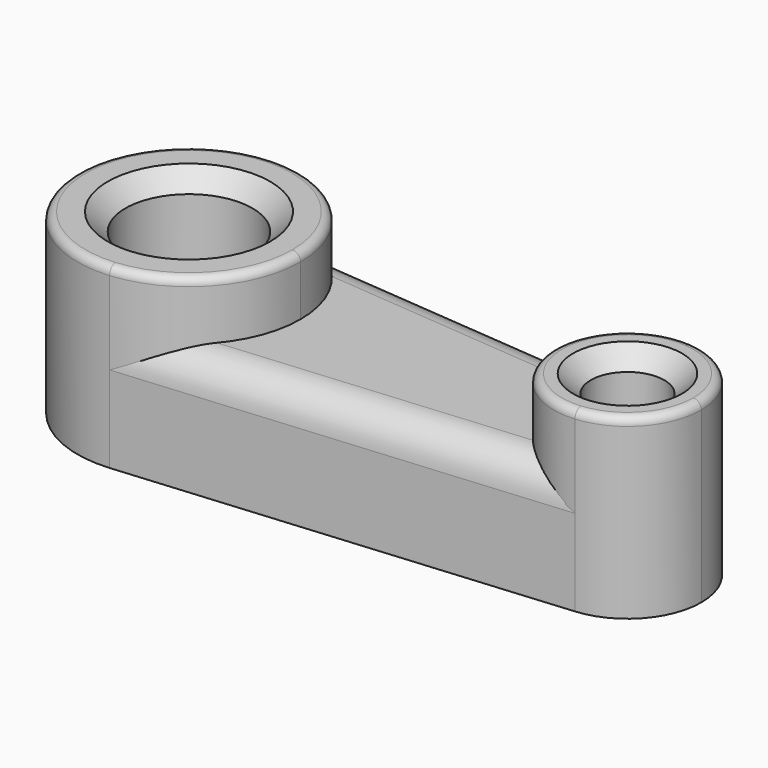
from build123d import *

# Parameters (mm, degrees)
F0_R     = 9.090565
F0_R_2   = 5.264345
F1_DEPTH = 25.4
F2_DEPTH = 17.018
F3_R     = 1.165099
F4_R     = 4.660398
F5_SIZE  = 2.54


with BuildPart() as f1:
    # F0 (on Top) → F1 (new body)
    with BuildSketch(Plane.XY):
        with BuildLine():
            ThreePointArc((-29.872189, -15.90883), (-19.479503, -10.794312), (-15.278428, 0))
            ThreePointArc((-15.278428, 0), (-19.479503, 10.794312), (-29.872189, 15.90883))
            ThreePointArc((-29.872189, 15.90883), (-47.214591, 0), (-29.872189, -15.90883))
        make_face()
        with Locations((-31.246509, 0)):
            Circle(F0_R, mode=Mode.SUBTRACT)
        with BuildLine():
            ThreePointArc((42.086694, 0), (39.306888, 7.142479), (32.430162, 10.526699))
            ThreePointArc((32.430162, 10.526699), (20.954883, 0), (32.430162, -10.526699))
            ThreePointArc((32.430162, -10.526699), (39.306888, -7.142479), (42.086694, 0))
        make_face()
        with Locations((31.520789, 0)):
            Circle(F0_R_2, mode=Mode.SUBTRACT)
    extrude(amount=F1_DEPTH)

    # F3
    f3_edges = [f1.edges().sort_by_distance(p)[0] for p in [
        (-32.62083, 15.90883, 25.4),
        (30.611416, 10.526699, 25.4),
    ]]
    fillet(f3_edges, radius=F3_R)

    # F5
    f5_edges = [f1.edges().sort_by_distance(p)[0] for p in [
        (-40.337074, 0, 25.4),
        (26.256444, 0, 25.4),
    ]]
    chamfer(f5_edges, length=F5_SIZE)


with BuildPart() as f2:
    # F0 (on Top) → F2 (new body)
    with BuildSketch(Plane.XY):
        with BuildLine():
            ThreePointArc((-29.872189, 15.90883), (-19.479503, 10.794312), (-15.278428, 0))
            ThreePointArc((-15.278428, 0), (-19.479503, -10.794312), (-29.872189, -15.90883))
            Line((-29.872189, -15.90883), (32.430162, -10.526699))
            ThreePointArc((32.430162, -10.526699), (20.954883, 0), (32.430162, 10.526699))
            Line((32.430162, 10.526699), (-29.872189, 15.90883))
        make_face()
    extrude(amount=F2_DEPTH)

    # F4
    f4_edges = [f2.edges().sort_by_distance(p)[0] for p in [
        (1.278986, -13.217764, 17.018),
        (1.278986, 13.217764, 17.018),
    ]]
    fillet(f4_edges, radius=F4_R)


solid = Compound([f1.part, f2.part])
